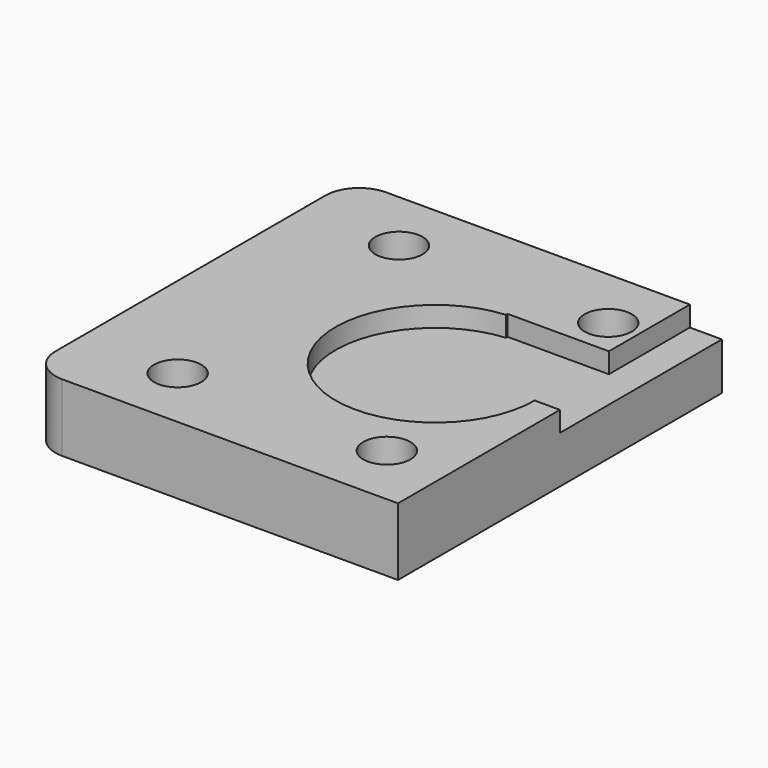
from build123d import *

# Parameters (mm, degrees)
SKETCH071_W         = 21.9
SKETCH071_H         = 24
PAD017_DEPTH        = 4
SKETCH072_R         = 5.9
POCKET024_DEPTH     = 1.2
SKETCH073_W         = 16
SKETCH073_H         = 6
SKETCH073_W_2       = 4
POCKET025_DEPTH     = 1.2
HOLE029_D           = 2.8
HOLE029_DEPTH       = 25
HOLE029_CBORE_D     = 6
HOLE029_CBORE_DEPTH = 2
FILLET026_R         = 2


with BuildPart() as part:
    # Sketch071 → Pad017 (new body)
    with BuildSketch(Plane.XY):
        with Locations((-11.05, 0)):
            Rectangle(SKETCH071_W, SKETCH071_H)
    extrude(amount=PAD017_DEPTH)

    # Sketch072 (on Face6 of Pad017) → Pocket024 (cut)
    with BuildSketch(Plane.XY.offset(4)):
        with Locations((7.5, 0)):
            Circle(SKETCH072_R)
    pocket024 = extrude(amount=-POCKET024_DEPTH, mode=Mode.SUBTRACT)

    # Mirrored031: Pocket024 across Sketch072 V_Axis
    add(pocket024.mirror(Plane(origin=(0, 0, 4), x_dir=(0, 0, 1), z_dir=(1, 0, 0))), mode=Mode.SUBTRACT)

    # Sketch073 (on Face5 of Mirrored031) → Pocket025 (cut)
    with BuildSketch(Plane.XY.offset(4)):
        with Locations((0, 3)):
            Rectangle(SKETCH073_W, SKETCH073_H)
        with Locations((0, 9)):
            Rectangle(SKETCH073_W_2, SKETCH073_H)
    extrude(amount=-POCKET025_DEPTH, mode=Mode.SUBTRACT)

    # Hole029
    with Locations(Plane(origin=(0, 0, 0), x_dir=(1, 0, 0), z_dir=(0, 0, -1))):
        with Locations((-16.2, 8.2), (-16.2, -8.2), (-3.8, 8.2), (-3.8, -8.2)):
            hole029 = CounterBoreHole(HOLE029_D / 2, HOLE029_CBORE_D / 2, HOLE029_CBORE_DEPTH, depth=HOLE029_DEPTH)

    # Mirrored032: Hole029 across Sketch074 V_Axis
    add(hole029.mirror(Plane(origin=(0, 0, 0), x_dir=(0, 0, -1), z_dir=(1, 0, 0))), mode=Mode.SUBTRACT)

    # Fillet026
    fillet026_edges = [part.edges().sort_by_distance(p)[0] for p in [
        (-22, -12, 2),
        (-22, 12, 2),
    ]]
    fillet(fillet026_edges, radius=FILLET026_R)


solid = part.part
